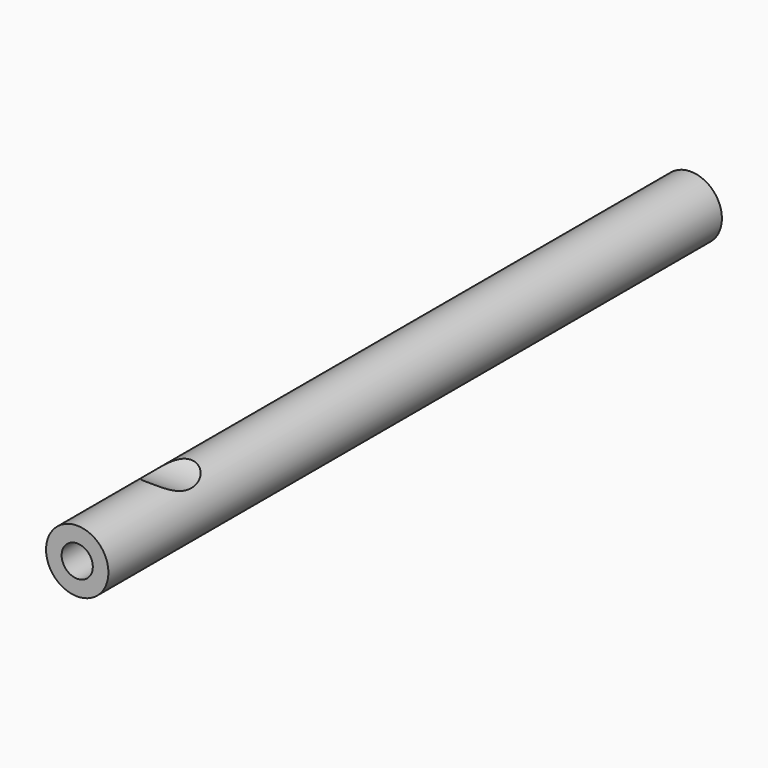
from build123d import *

# Parameters (mm, degrees)
F0_R     = 12
F0_R_2   = 6
F1_DEPTH = 295
F3_R     = 17.5
F4_DEPTH = 12.5


with BuildPart() as f1:
    # F0 (on Front) → F1 (new body)
    with BuildSketch(Plane.XZ):
        Circle(F0_R)
        Circle(F0_R_2, mode=Mode.SUBTRACT)
    extrude(amount=F1_DEPTH)

    # F3 (on Right) → F4 (cut, symmetric)
    with BuildSketch(Plane.YZ):
        with Locations((-250, 26.5)):
            Circle(F3_R)
    extrude(amount=F4_DEPTH, both=True, mode=Mode.SUBTRACT)


solid = f1.part
